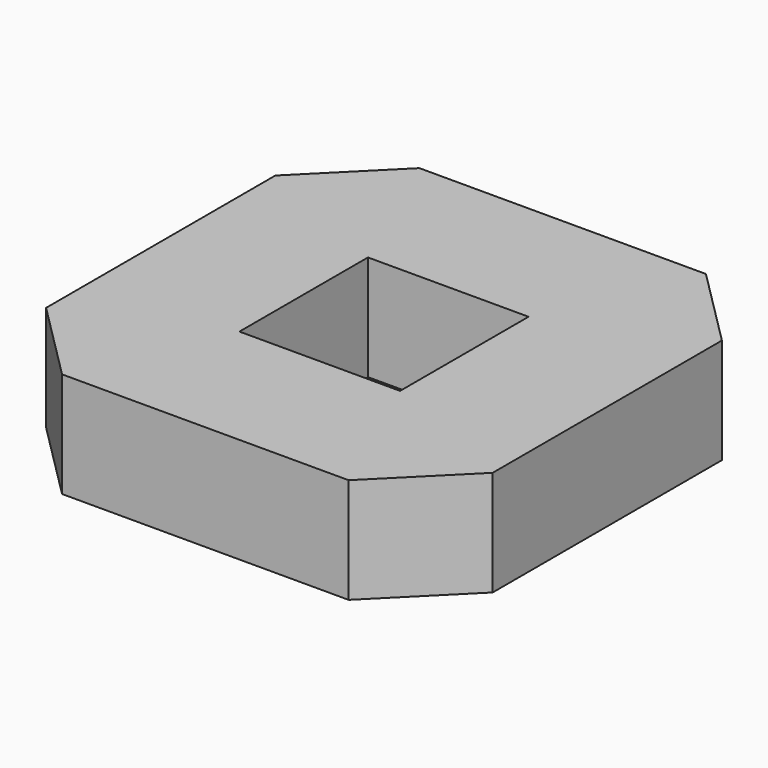
from build123d import *

# Parameters (mm, degrees)
F1_DEPTH = 3


with BuildPart() as f1:
    # F0 (on Top) → F1 (new body)
    with BuildSketch(Plane.XY):
        Polygon((-2.297005, -1.893192), (-6.368706, -3.686192), (-4.090005, -5.9655), (4.069995, -5.9655), (6.348696, -3.686192), (2.276995, -1.893192), align=None)
        Polygon((6.348696, -3.686192), (6.348696, 4.473808), (2.276995, 2.680808), (2.276995, -1.893192), align=None)
        Polygon((-2.297005, 2.680808), (-6.368706, 4.473808), (-6.368706, -3.686192), (-2.297005, -1.893192), align=None)
        Polygon((4.069995, 6.753117), (-4.090005, 6.753117), (-6.368706, 4.473808), (-2.297005, 2.680808), (2.276995, 2.680808), (6.348696, 4.473808), align=None)
    extrude(amount=F1_DEPTH)


solid = f1.part
